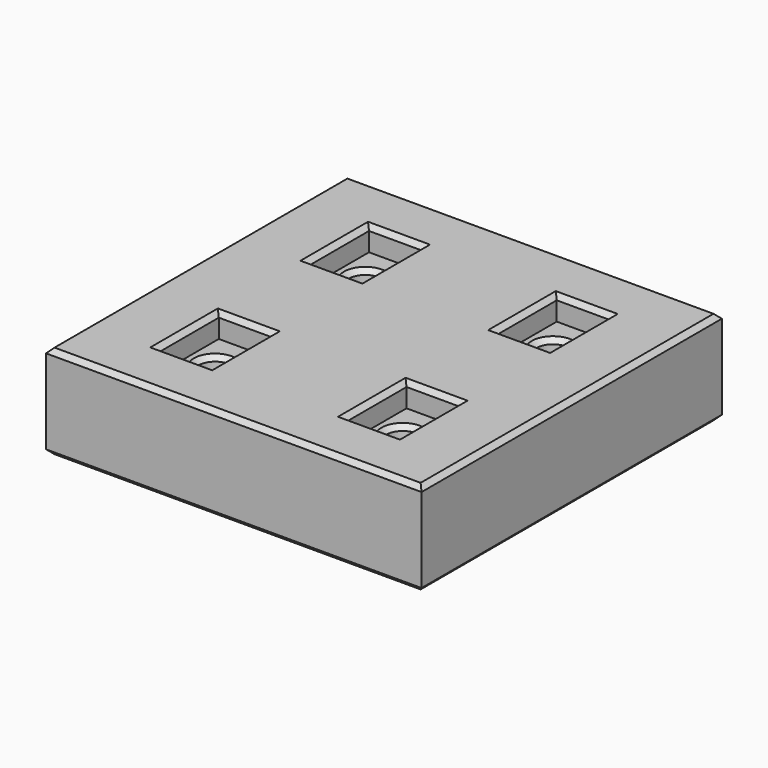
from build123d import *

# Parameters (mm, degrees)
F0_W     = 40
F0_H     = 40
F0_R     = 1.75
F1_DEPTH = 10
F2_R     = 3.1
F3_DEPTH = 3
F4_W     = 5.6
F4_H     = 8
F5_DEPTH = 2.5
F6_SIZE  = 0.5
F7_SIZE  = 0.5


with BuildPart() as f1:
    # F0 (on Top) → F1 (new body)
    with BuildSketch(Plane.XY):
        Rectangle(F0_W, F0_H)
        with Locations((-10, -10)):
            Circle(F0_R, mode=Mode.SUBTRACT)
        with Locations((10, -10)):
            Circle(F0_R, mode=Mode.SUBTRACT)
        with Locations((-10, 10)):
            Circle(F0_R, mode=Mode.SUBTRACT)
        with Locations((10, 10)):
            Circle(F0_R, mode=Mode.SUBTRACT)
    extrude(amount=F1_DEPTH)

    # F2 (on face) → F3 (cut)
    with BuildSketch(Plane(origin=(0, 0, 0), x_dir=(1, 0, 0), z_dir=(0, 0, -1))):
        with Locations((10, 10)):
            Circle(F2_R)
        with Locations((10, -10)):
            Circle(F2_R)
        with Locations((-10, -10)):
            Circle(F2_R)
        with Locations((-10, 10)):
            Circle(F2_R)
    extrude(amount=-F3_DEPTH, mode=Mode.SUBTRACT)

    # F4 (on face) → F5 (cut)
    with BuildSketch(Plane.XY.offset(10)):
        with Locations((-10, 10)):
            Rectangle(F4_W, F4_H)
        with Locations((10, 10)):
            Rectangle(F4_W, F4_H)
        with Locations((10, -10)):
            Rectangle(F4_W, F4_H)
        with Locations((-10, -10)):
            Rectangle(F4_W, F4_H)
    extrude(amount=-F5_DEPTH, mode=Mode.SUBTRACT)

    # F6
    f6_edges = [f1.edges().sort_by_distance(p)[0] for p in [
        (-20, 0, 10),
        (0, 20, 10),
        (20, 0, 10),
        (0, -20, 10),
        (12.8, -10, 10),
        (10, -14, 10),
        (7.2, -10, 10),
        (10, -6, 10),
        (-7.2, -10, 10),
        (-12.8, -10, 10),
        (-10, -6, 10),
        (-10, -14, 10),
        (-10, 14, 10),
        (-12.8, 10, 10),
        (-10, 6, 10),
        (-7.2, 10, 10),
        (12.8, 10, 10),
        (10, 14, 10),
        (7.2, 10, 10),
        (10, 6, 10),
    ]]
    chamfer(f6_edges, length=F6_SIZE)

    # F7
    f7_edges = [f1.edges().sort_by_distance(p)[0] for p in [
        (6.9, -10, 0),
        (-13.1, -10, 0),
        (6.9, 10, 0),
        (-13.1, 10, 0),
        (8.25, -10, 3),
        (-11.75, -10, 3),
        (8.25, 10, 3),
        (-11.75, 10, 3),
        (-20, 0, 0),
        (0, 20, 0),
        (0, -20, 0),
        (20, 0, 0),
        (8.25, 10, 7.5),
        (8.25, -10, 7.5),
        (-11.75, 10, 7.5),
        (-11.75, -10, 7.5),
    ]]
    chamfer(f7_edges, length=F7_SIZE)


solid = f1.part
